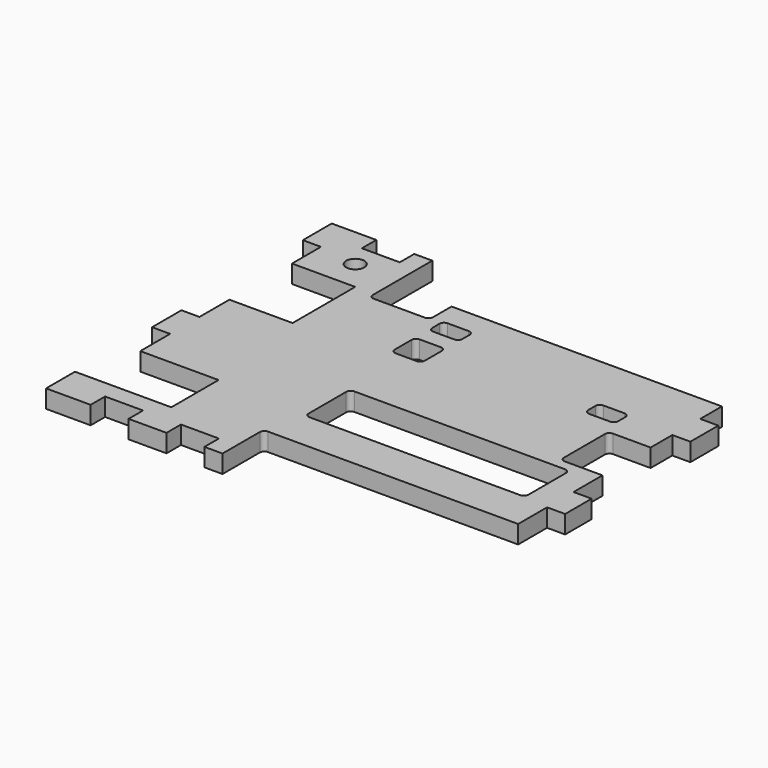
from build123d import *

# Parameters (mm, degrees)
F0_R     = 1.5
F1_DEPTH = 3


with BuildPart() as f1:
    # F0 (on Top) → F1 (new body)
    with BuildSketch(Plane.XY):
        with BuildLine():
            Line((0, 6), (0, 0))
            Line((0, 0), (7.4, 0))
            Line((7.4, 0), (7.4, 3))
            Line((7.4, 3), (13.7, 3))
            Line((13.7, 3), (13.7, 0))
            Line((13.7, 0), (20, 0))
            Line((20, 0), (20, 3))
            Line((20, 3), (26.3, 3))
            Line((26.3, 3), (26.3, 0))
            Line((26.3, 0), (29.3, 0))
            Line((29.3, 0), (29.3, 7.75))
            ThreePointArc((29.3, 7.75), (29.51967, 8.28033), (30.05, 8.5))
            Line((30.05, 8.5), (71.6, 8.5))
            Line((71.6, 8.5), (71.6, 14.5))
            Line((71.6, 14.5), (74.6, 14.5))
            Line((74.6, 14.5), (74.6, 20))
            Line((74.6, 20), (71.6, 20))
            Line((71.6, 20), (71.6, 26))
            Line((71.6, 26), (65.35, 26))
            ThreePointArc((65.35, 26), (64.81967, 26.21967), (64.6, 26.75))
            Line((64.6, 26.75), (64.6, 35.25))
            ThreePointArc((64.6, 35.25), (64.81967, 35.78033), (65.35, 36))
            Line((65.35, 36), (71.6, 36))
            Line((71.6, 36), (71.6, 40.5))
            Line((71.6, 40.5), (74.6, 40.5))
            Line((74.6, 40.5), (74.6, 46.3))
            Line((74.6, 46.3), (71.6, 46.3))
            Line((71.6, 46.3), (71.6, 50.8))
            Line((71.6, 50.8), (26.7, 50.8))
            Line((26.7, 50.8), (26.7, 46.95))
            ThreePointArc((26.7, 46.95), (26.48033, 46.41967), (25.95, 46.2))
            Line((25.95, 46.2), (17.45, 46.2))
            ThreePointArc((17.45, 46.2), (16.91967, 46.41967), (16.7, 46.95))
            Line((16.7, 46.95), (16.7, 59.3))
            Line((16.7, 59.3), (13.7, 59.3))
            Line((13.7, 59.3), (13.7, 56.3))
            Line((13.7, 56.3), (7.4, 56.3))
            Line((7.4, 56.3), (7.4, 59.3))
            Line((7.4, 59.3), (0, 59.3))
            Line((0, 59.3), (0, 53.3))
            Line((0, 53.3), (3, 53.3))
            Line((3, 53.3), (3, 47.3))
            Line((3, 47.3), (13.5, 47.3))
            Line((13.5, 47.3), (13.5, 34.3))
            Line((13.5, 34.3), (3, 34.3))
            Line((3, 34.3), (3, 28.1))
            Line((3, 28.1), (0, 28.1))
            Line((0, 28.1), (0, 22))
            Line((0, 22), (3, 22))
            Line((3, 22), (3, 15.8))
            Line((3, 15.8), (16, 15.8))
            Line((16, 15.8), (16, 6))
            Line((16, 6), (0, 6))
        make_face()
        with BuildLine():
            Line((66.75, 15), (31.75, 15))
            ThreePointArc((31.75, 15), (31.21967, 15.21967), (31, 15.75))
            Line((31, 15.75), (31, 23.55))
            ThreePointArc((31, 23.55), (31.21967, 24.08033), (31.75, 24.3))
            Line((31.75, 24.3), (66.75, 24.3))
            ThreePointArc((66.75, 24.3), (67.28033, 24.08033), (67.5, 23.55))
            Line((67.5, 23.55), (67.5, 15.75))
            ThreePointArc((67.5, 15.75), (67.28033, 15.21967), (66.75, 15))
        make_face(mode=Mode.SUBTRACT)
        with BuildLine():
            Line((32.75, 36), (29.25, 36))
            ThreePointArc((29.25, 36), (28.71967, 36.21967), (28.5, 36.75))
            Line((28.5, 36.75), (28.5, 40.25))
            ThreePointArc((28.5, 40.25), (28.71967, 40.78033), (29.25, 41))
            Line((29.25, 41), (32.75, 41))
            ThreePointArc((32.75, 41), (33.28033, 40.78033), (33.5, 40.25))
            Line((33.5, 40.25), (33.5, 36.75))
            ThreePointArc((33.5, 36.75), (33.28033, 36.21967), (32.75, 36))
        make_face(mode=Mode.SUBTRACT)
        with Locations((9.5, 52.3)):
            Circle(F0_R, mode=Mode.SUBTRACT)
        with BuildLine():
            Line((32.75, 43.8), (29.25, 43.8))
            ThreePointArc((29.25, 43.8), (28.71967, 44.01967), (28.5, 44.55))
            Line((28.5, 44.55), (28.5, 46.05))
            ThreePointArc((28.5, 46.05), (28.71967, 46.58033), (29.25, 46.8))
            Line((29.25, 46.8), (32.75, 46.8))
            ThreePointArc((32.75, 46.8), (33.28033, 46.58033), (33.5, 46.05))
            Line((33.5, 46.05), (33.5, 44.55))
            ThreePointArc((33.5, 44.55), (33.28033, 44.01967), (32.75, 43.8))
        make_face(mode=Mode.SUBTRACT)
        with BuildLine():
            Line((62.95, 38.4), (59.45, 38.4))
            ThreePointArc((59.45, 38.4), (58.91967, 38.61967), (58.7, 39.15))
            Line((58.7, 39.15), (58.7, 40.65))
            ThreePointArc((58.7, 40.65), (58.91967, 41.18033), (59.45, 41.4))
            Line((59.45, 41.4), (62.95, 41.4))
            ThreePointArc((62.95, 41.4), (63.48033, 41.18033), (63.7, 40.65))
            Line((63.7, 40.65), (63.7, 39.15))
            ThreePointArc((63.7, 39.15), (63.48033, 38.61967), (62.95, 38.4))
        make_face(mode=Mode.SUBTRACT)
    extrude(amount=-F1_DEPTH)


solid = f1.part
